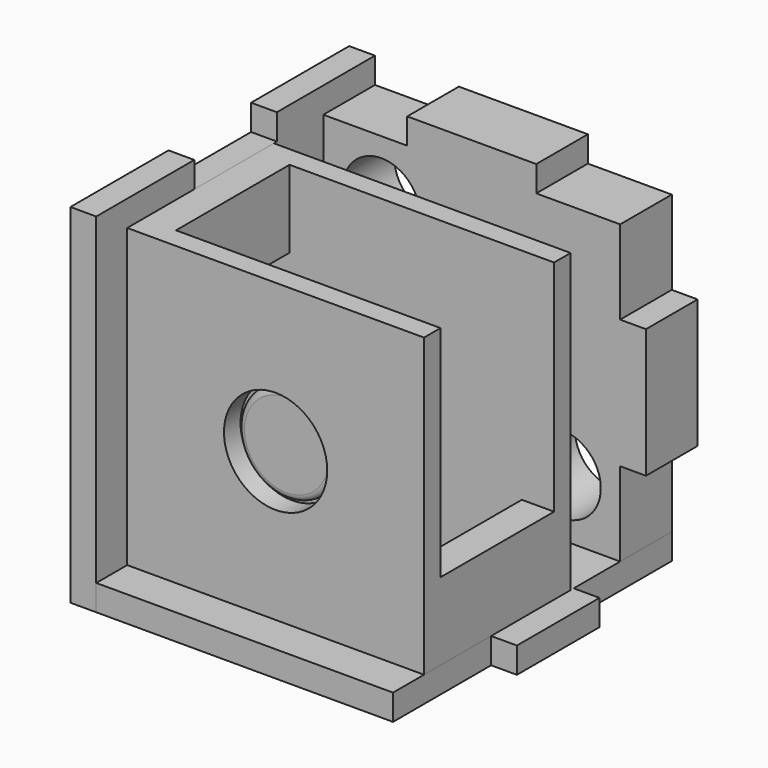
from build123d import *

# Parameters (mm, degrees)
F0_W      = 13.35
F0_H      = 13.35
F1_DEPTH  = 1.15
F2_R      = 3.75
F3_DEPTH  = 0.55
F4_R      = 0.5
F5_W      = 23
F5_H      = 23
F5_R      = 4
F6_DEPTH  = 1.6
F9_DEPTH  = 1.6
F10_W     = 2.5
F10_H     = 6
F11_DEPTH = 11
F12_W     = 2
F12_H     = 7
F12_W_2   = 7
F12_H_2   = 2
F13_DEPTH = 2
F14_W     = 8
F14_H     = 2
F14_W_2   = 2
F14_H_2   = 8
F15_DEPTH = 2
F16_W     = 2
F16_H     = 8
F17_DEPTH = 2
F18_R     = 3
F18_R_2   = 2.5
F18_W     = 2
F18_H     = 10
F18_W_2   = 10
F18_H_2   = 2
F19_DEPTH = 5


with BuildPart() as f1:
    # F0 (on Front) → F1 (new body)
    with BuildSketch(Plane.XZ):
        Rectangle(F0_W, F0_H)
    extrude(amount=F1_DEPTH)

    # F2 (on face) → F3 (join)
    with BuildSketch(Plane.XZ.offset(1.15)):
        Circle(F2_R)
    extrude(amount=F3_DEPTH)

    # F4
    f4_edges = [f1.edges().sort_by_distance(p)[0] for p in [
        (-3.75, -1.7, 0),
    ]]
    fillet(f4_edges, radius=F4_R)


with BuildPart() as f6:
    # F5 (on face) → F6 (new body)
    with BuildSketch(Plane.XZ.offset(1.15)):
        Rectangle(F5_W, F5_H)
        Circle(F5_R, mode=Mode.SUBTRACT)
    extrude(amount=F6_DEPTH)



with BuildPart() as f9:
    # F8 (on offset) → F9 (new body)
    with BuildSketch(Plane(origin=(0, 9.85, 0), x_dir=(-1, 0, 0), z_dir=(0, 1, 0))):
        Polygon((11.5, 0.5), (11.5, 11.5), (-11.5, 11.5), (-11.5, -11.5), (4.5, -11.5), (4.5, -6.75), (9, 0.5), align=None)
    extrude(amount=F9_DEPTH)


with BuildPart() as f6_1:
    add(f6.part)

    add(f9.part)  # F11 merges F9
    # F10 (on face) → F11 (join, through all)
    with BuildSketch(Plane.XZ.offset(-9.85)):
        with Locations((-10.25, 8.5)):
            Rectangle(F10_W, F10_H)
        with Locations((10.25, -8.5)):
            Rectangle(F10_W, F10_H)
    extrude(amount=F11_DEPTH)


with BuildPart() as f13:
    # F12 (on face) → F13 (new body)
    with BuildSketch(Plane(origin=(0, -1.15, 0), x_dir=(-1, 0, 0), z_dir=(0, 1, 0))):
        with Locations((12.5, 0)):
            Rectangle(F12_W, F12_H)
        Polygon((11.5, -11.5), (11.5, -3.5), (11.5, 3.5), (7.175, 3.5), (7.175, -2.9323593129), (9.6976406871, -5.455), (5.455, -9.6976406871), (2.9323593129, -7.175), (-5.5, -7.175), (-5.5, -11.5), (-3.5, -11.5), (3.5, -11.5), align=None)
        with Locations((0, -12.5)):
            Rectangle(F12_W_2, F12_H_2)
    extrude(amount=F13_DEPTH)


with BuildPart() as f15:
    # F14 (on face) → F15 (new body)
    with BuildSketch(Plane(origin=(0, 0, -11.5), x_dir=(1, 0, 0), z_dir=(0, 0, -1))):
        with Locations((-7.5, 0.15)):
            Rectangle(F14_W, F14_H)
        Polygon((11.5, 5.75), (-11.5, 5.75), (-11.5, 1.15), (-3.5, 1.15), (3.5, 1.15), (3.5, -0.85), (-3.5, -0.85), (-11.5, -0.85), (-11.5, -3.75), (-11.5, -11.75), (-11.5, -21.25), (-5, -21.25), (-5, -16.25), (5, -16.25), (5, -21.25), (11.5, -21.25), (11.5, -11.75), (11.5, -3.75), align=None)
        with Locations((-12.5, -7.75)):
            Rectangle(F14_W_2, F14_H_2)
        with Locations((12.5, -7.75)):
            Rectangle(F14_W_2, F14_H_2)
    extrude(amount=F15_DEPTH)


with BuildPart() as f17:
    # F16 (on face) → F17 (new body)
    with BuildSketch(Plane(origin=(-11.5, 0, 0), x_dir=(0, -1, 0), z_dir=(-1, 0, 0))):
        Polygon((-3.75, -13.5), (5.75, -13.5), (5.75, 13.5), (-3.75, 13.5), (-3.75, 11.5), (-11.75, 11.5), (-11.75, 13.5), (-21.25, 13.5), (-21.25, 5), (-16.25, 5), (-16.25, -5), (-21.25, -5), (-21.25, -13.5), (-11.75, -13.5), (-11.75, -11.5), (-3.75, -11.5), align=None)
        Polygon((1.15, 3.5), (1.15, -3.5), (1.15, -11.5), (-0.85, -11.5), (-0.85, -3.5), (-0.85, 3.5), align=None, mode=Mode.SUBTRACT)
        with Locations((0.15, -7.5)):
            Rectangle(F16_W, F16_H)
    extrude(amount=F17_DEPTH)


with BuildPart() as f19:
    # F18 (on face) → F19 (new body)
    with BuildSketch(Plane(origin=(0, 16.25, 0), x_dir=(-1, 0, 0), z_dir=(0, 1, 0))):
        Polygon((-5, 11.5), (-11.5, 11.5), (-11.5, 5), (-11.5, -5), (-11.5, -11.5), (-5, -11.5), (5, -11.5), (11.5, -11.5), (11.5, -5), (11.5, 5), (11.5, 11.5), (5, 11.5), align=None)
        with Locations((-7, -7)):
            Circle(F18_R, mode=Mode.SUBTRACT)
        Circle(F18_R_2, mode=Mode.SUBTRACT)
        with Locations((7, 7)):
            Circle(F18_R, mode=Mode.SUBTRACT)
        with Locations((-12.5, 0)):
            Rectangle(F18_W, F18_H)
        with Locations((0, -12.5)):
            Rectangle(F18_W_2, F18_H_2)
        with Locations((0, 12.5)):
            Rectangle(F18_W_2, F18_H_2)
        with Locations((12.5, 0)):
            Rectangle(F18_W, F18_H)
    extrude(amount=F19_DEPTH)


solid = Compound([f1.part, f6_1.part, f13.part, f15.part, f17.part, f19.part])
